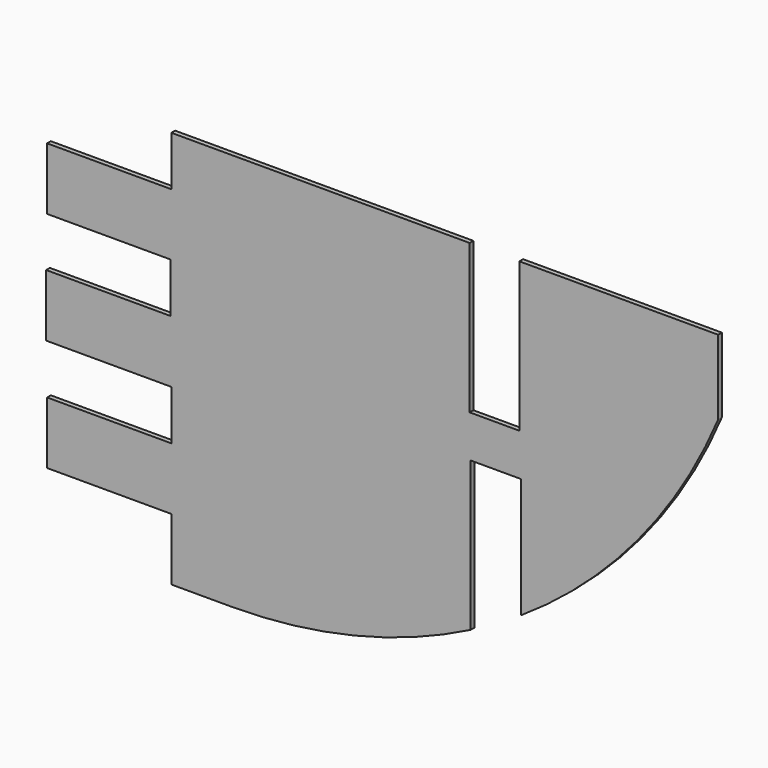
from build123d import *

# Parameters (mm, degrees)
F1_DEPTH = 4.7625


with BuildPart() as f1:
    # F0 (on Front) → F1 (new body)
    with BuildSketch(Plane.XZ):
        with BuildLine():
            Line((0, -342.9), (0, -406.4))
            Line((0, -406.4), (60.96, -406.4))
            ThreePointArc((60.96, -406.4), (186.86988, -391.527075), (305.849092, -347.726975))
            Line((305.849092, -347.726975), (305.849092, -195.326975))
            Line((305.849092, -195.326975), (357.413322, -195.326975))
            Line((357.413322, -195.326975), (357.413322, -317.825919))
            ThreePointArc((357.413322, -317.825919), (476.075937, -211.989718), (558.8, -76.2))
            Line((558.8, -76.2), (558.8, 0))
            Line((558.8, 0), (355.6, 0))
            Line((355.6, 0), (355.6, -152.4))
            Line((355.6, -152.4), (304.8, -152.4))
            Line((304.8, -152.4), (304.8, 0))
            Line((304.8, 0), (0, 0))
            Line((0, 0), (0, -50.8))
            Line((0, -50.8), (-127, -50.8))
            Line((-127, -50.8), (-127, -114.3))
            Line((-127, -114.3), (-1.006181, -114.3))
            Line((-1.006181, -114.3), (-1.006181, -165.1))
            Line((-1.006181, -165.1), (-128.006181, -165.1))
            Line((-128.006181, -165.1), (-128.006181, -228.6))
            Line((-128.006181, -228.6), (0, -228.6))
            Line((0, -228.6), (0, -279.4))
            Line((0, -279.4), (-127, -279.4))
            Line((-127, -279.4), (-127, -342.9))
            Line((-127, -342.9), (0, -342.9))
        make_face()
    extrude(amount=F1_DEPTH)


solid = f1.part
